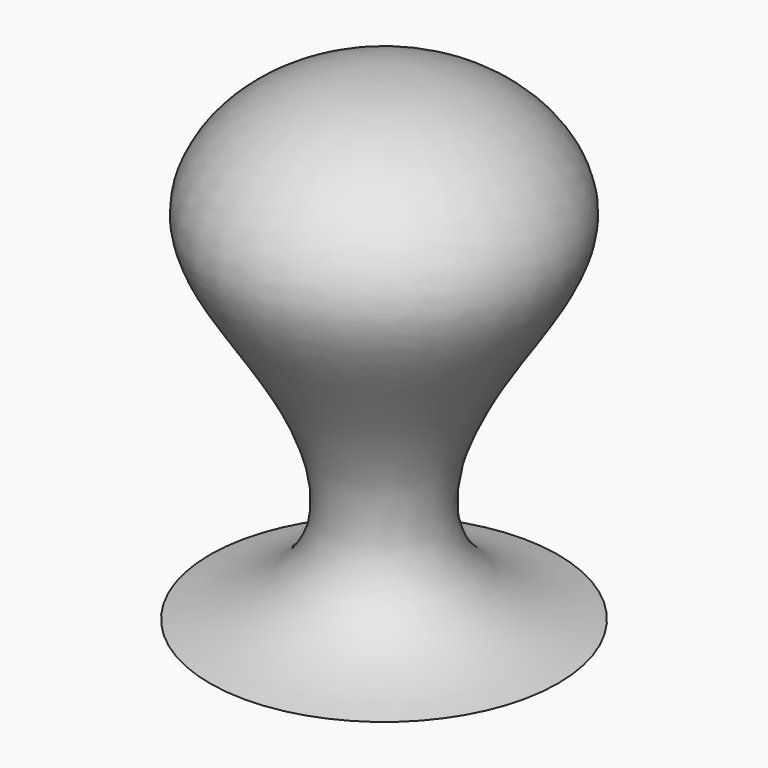
from build123d import *


with BuildPart() as f1:
    # F0 (on Front) → F1 (revolve)
    with BuildSketch(Plane.XZ):
        with BuildLine():
            Line((0, 150), (0, 0))
            Line((0, 0), (55, 0))
            add(Edge.make_bspline(
                [(55, 0), (6.395777144, 10.1621224902), (23.5258204254, 69.4900936096), (70.3000449826, 115.2186499184), (29.5079423297, 151.1958155685), (0, 150)],
                knots=[0, 0, 0, 0, 0.2445610067, 0.4652079199, 0.6967781187, 0.6967781187, 0.6967781187, 0.6967781187], degree=3))
        make_face()
    revolve(axis=Axis((0, 0, 75), (0, 0, 1)))


solid = f1.part
